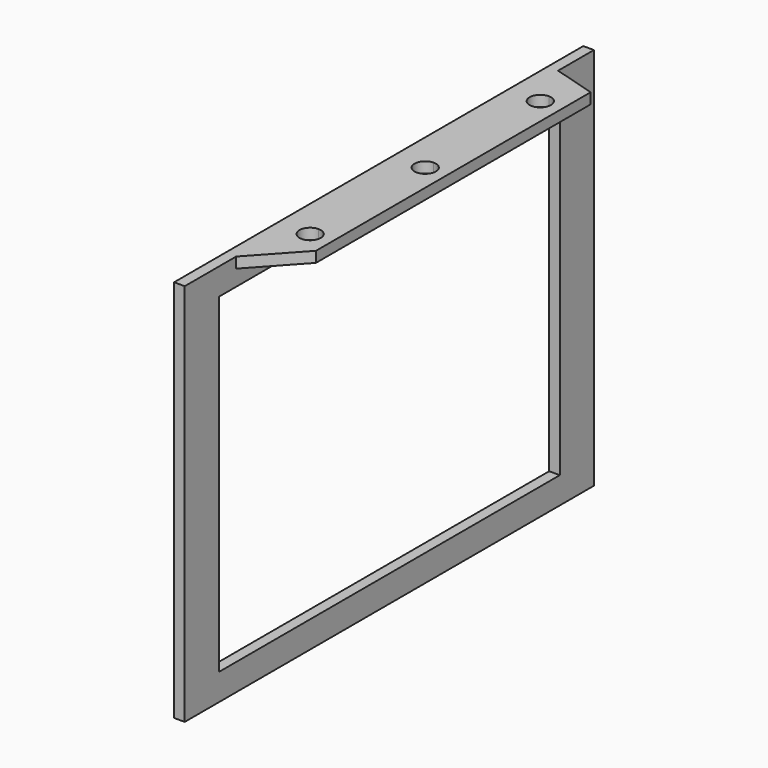
from build123d import *

# Parameters (mm, degrees)
F0_W     = 3.175
F0_H     = 152.4
F1_DEPTH = 114.3
F2_W     = 127
F2_H     = 98.425
F3_DEPTH = 25.4
F4_W     = 119.929246
F4_H     = 3.175
F5_DEPTH = 12.7
F7_DEPTH = 25.4
F9_DEPTH = 25.4


with BuildPart() as f1:
    # F0 (on Top) → F1 (new body)
    with BuildSketch(Plane.XY):
        Rectangle(F0_W, F0_H)
    extrude(amount=F1_DEPTH)

    # F2 (on face) → F3 (cut)
    with BuildSketch(Plane.YZ.offset(1.5875)):
        with Locations((0, 57.15)):
            Rectangle(F2_W, F2_H)
    extrude(amount=-F3_DEPTH, mode=Mode.SUBTRACT)

    # F4 (on face) → F5 (join)
    with BuildSketch(Plane.YZ.offset(1.5875)):
        with Locations((2.900731, 112.7125)):
            Rectangle(F4_W, F4_H)
    extrude(amount=F5_DEPTH)

    # F6 (on face) → F7 (cut)
    with BuildSketch(Plane.XY.offset(114.3)):
        Polygon((14.2875, 62.865354), (1.5875, 62.865354), (14.2875, 59.108607), align=None)
        Polygon((14.2875, -43.201216), (1.5875, -57.063892), (14.2875, -57.063892), align=None)
    extrude(amount=-F7_DEPTH, mode=Mode.SUBTRACT)

    # F8 (on face) → F9 (cut)
    with BuildSketch(Plane.XY.offset(114.3)):
        with BuildLine():
            ThreePointArc((11.1125, 48.286981), (10.182564, 50.532045), (7.9375, 51.461981))
            Line((7.9375, 51.461981), (7.9375, 45.111981))
            ThreePointArc((7.9375, 45.111981), (10.182564, 46.041917), (11.1125, 48.286981))
        make_face()
        with BuildLine():
            ThreePointArc((11.1125, -37.432554), (10.182564, -35.18749), (7.9375, -34.257554))
            Line((7.9375, -34.257554), (7.9375, -40.607554))
            ThreePointArc((7.9375, -40.607554), (10.182564, -39.677618), (11.1125, -37.432554))
        make_face()
        with BuildLine():
            Line((7.9375, -40.607554), (7.9375, -34.257554))
            ThreePointArc((7.9375, -34.257554), (4.7625, -37.432554), (7.9375, -40.607554))
        make_face()
        with BuildLine():
            ThreePointArc((11.1125, 5.427213), (10.182564, 7.672277), (7.9375, 8.602213))
            Line((7.9375, 8.602213), (7.9375, 2.252213))
            ThreePointArc((7.9375, 2.252213), (10.182564, 3.182149), (11.1125, 5.427213))
        make_face()
        with BuildLine():
            Line((7.9375, 2.252213), (7.9375, 8.602213))
            ThreePointArc((7.9375, 8.602213), (4.7625, 5.427213), (7.9375, 2.252213))
        make_face()
        with BuildLine():
            Line((7.9375, 45.111981), (7.9375, 51.461981))
            ThreePointArc((7.9375, 51.461981), (4.7625, 48.286981), (7.9375, 45.111981))
        make_face()
    extrude(amount=-F9_DEPTH, mode=Mode.SUBTRACT)


solid = f1.part
